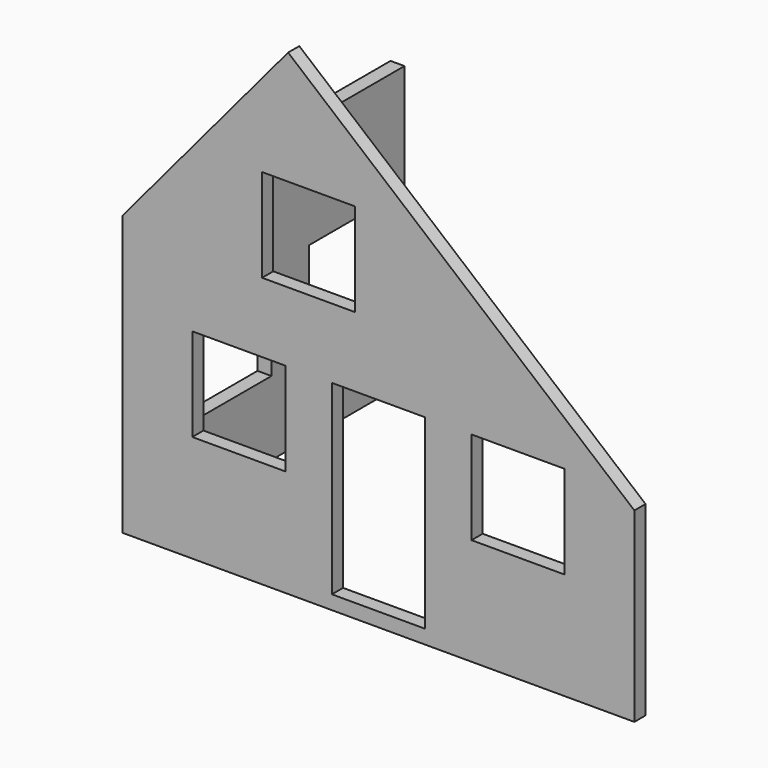
from build123d import *

# Parameters (mm, degrees)
F1_W     = 20
F1_H     = 20
F1_H_2   = 40
F2_DEPTH = 3
F4_W     = 69
F4_H     = 60
F4_W_2   = 23.4525548294
F4_H_2   = 20.2393522486
F4_W_3   = 18.3444470167
F4_H_3   = 20.1539043337
F5_DEPTH = 3


with BuildPart() as f2:
    # F1 (on Front) → F2 (new body, through all)
    with BuildSketch(Plane.XZ):
        Polygon((-110, 60), (-110, 0), (0, 0), (0, 40), (-74.3987273018, 102.427944639), align=None)
        with Locations((-85, 33)):
            Rectangle(F1_W, F1_H, mode=Mode.SUBTRACT)
        with Locations((-55, 23)):
            Rectangle(F1_W, F1_H_2, mode=Mode.SUBTRACT)
        with Locations((-25, 33)):
            Rectangle(F1_W, F1_H, mode=Mode.SUBTRACT)
        with Locations((-70, 68)):
            Rectangle(F1_W, F1_H, mode=Mode.SUBTRACT)
    extrude(amount=-F2_DEPTH)


with BuildPart() as f5:
    # F4 (on plane+point) → F5 (new body, through all)
    with BuildSketch(Plane.YZ.offset(-110)):
        with Locations((37.5, 30)):
            Rectangle(F4_W, F4_H)
        with Locations((24.549653288, 26.0107456706)):
            Rectangle(F4_W_2, F4_H_2, mode=Mode.SUBTRACT)
        with Locations((55.563442409, 26.454555802)):
            Rectangle(F4_W_3, F4_H_3, mode=Mode.SUBTRACT)
    extrude(amount=F5_DEPTH)


solid = Compound([f2.part, f5.part])
